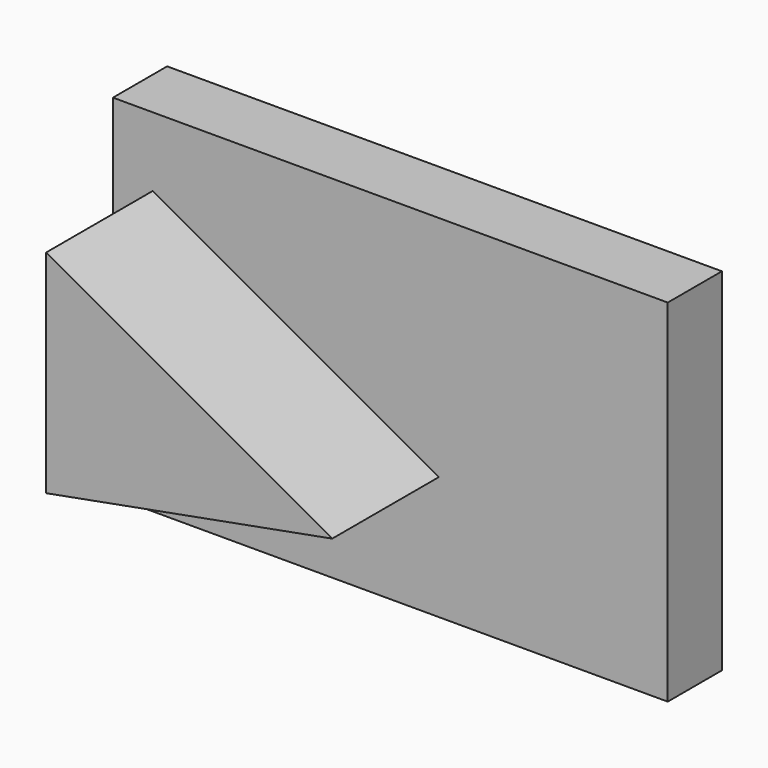
from build123d import *

# Parameters (mm, degrees)
F0_W     = 208.097614
F0_H     = 131.79294
F1_DEPTH = 25.4
F4_DEPTH = 50


with BuildPart() as f1:
    # F0 (on Front) → F1 (new body)
    with BuildSketch(Plane.XZ):
        with Locations((-18.191915, 3.902476)):
            Rectangle(F0_W, F0_H)
    extrude(amount=F1_DEPTH)

    # F3 (on face) → F4 (join)
    with BuildSketch(Plane.XZ.offset(25.4)):
        Polygon((-107.326537, -35.649035), (0, -15.753135), (-107.326537, 43.823242), align=None)
    extrude(amount=F4_DEPTH)


solid = f1.part
